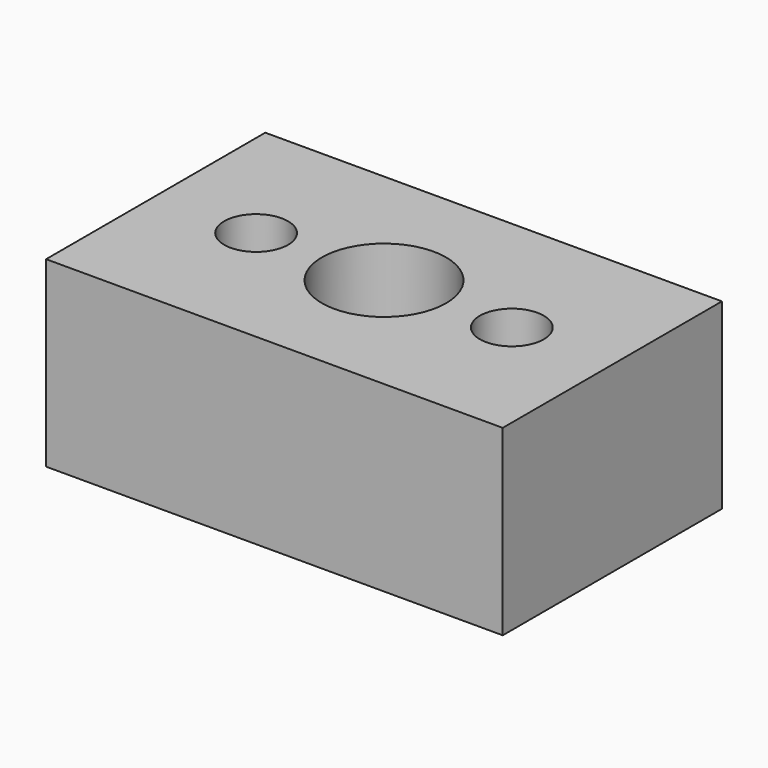
from build123d import *

# Parameters (mm, degrees)
F0_W     = 25
F0_H     = 15
F0_R     = 3.4
F0_R_2   = 1.75
F1_DEPTH = 10


with BuildPart() as f1:
    # F0 (on Top) → F1 (new body)
    with BuildSketch(Plane.XY):
        with Locations((-1.232382, 4.230875)):
            Rectangle(F0_W, F0_H)
        with Locations((-1.232382, 4.230875)):
            Circle(F0_R, mode=Mode.SUBTRACT)
        with Locations((5.767618, 4.230875)):
            Circle(F0_R_2, mode=Mode.SUBTRACT)
        with Locations((-8.232382, 4.230875)):
            Circle(F0_R_2, mode=Mode.SUBTRACT)
    extrude(amount=F1_DEPTH)


solid = f1.part
